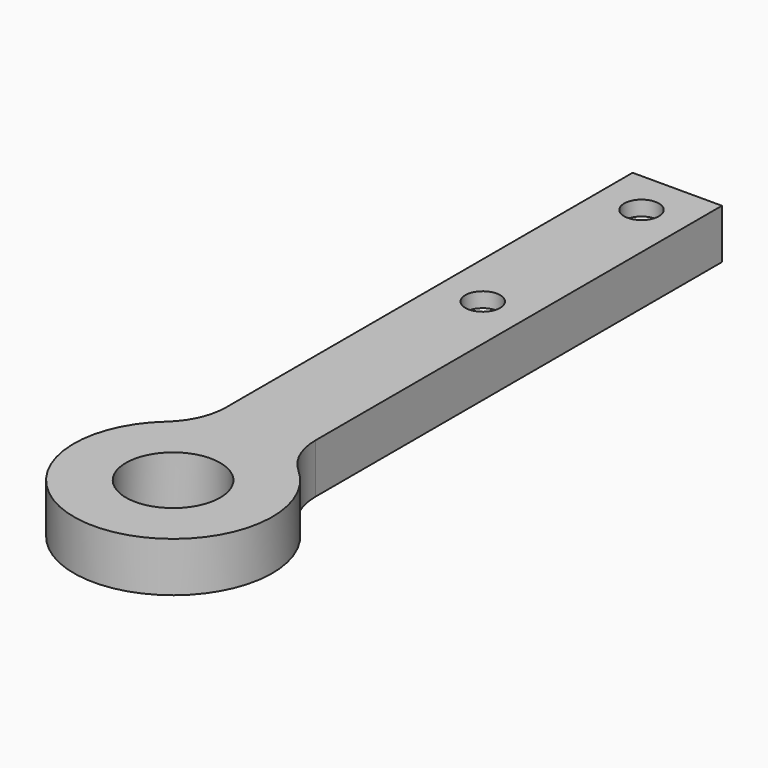
from build123d import *

# Parameters (mm, degrees)
CYLINDER003_R     = 3.5
CYLINDER003_DEPTH = 10
CYLINDER002_R     = 1.5
CYLINDER002_DEPTH = 10
CYLINDER_R        = 9.5
CYLINDER_DEPTH    = 10
CYLINDER001_R     = 20
CYLINDER001_DEPTH = 10
BOX_W             = 18
BOX_H             = 110
BOX_DEPTH         = 10
FILLET_R          = 13


with BuildPart() as cylinder003:
    # Cylinder003 → Cylinder003 (new body)
    with BuildSketch(Plane(origin=(15, -5, 8), x_dir=(1, 0, 0), z_dir=(0, 0, 1))):
        Circle(CYLINDER003_R)
    extrude(amount=CYLINDER003_DEPTH)


with BuildPart() as cone:
    # Cone → Cone (revolve)
    with BuildSketch(Plane(origin=(15, -5, 6), x_dir=(1, 0, 0), z_dir=(0, -1, 0))):
        Polygon((0, 0), (1.5, 0), (3.5, 2), (0, 2), align=None)
    revolve(axis=Axis((15, -5, 6), (0, 0, 1)))


with BuildPart() as cylinder002:
    # Cylinder002 → Cylinder002 (new body)
    with BuildSketch(Plane(origin=(15, -5, 0), x_dir=(1, 0, 0), z_dir=(0, 0, 1))):
        Circle(CYLINDER002_R)
    extrude(amount=CYLINDER002_DEPTH)


with BuildPart() as fusion001:
    # Fusion001 base: copy of Cylinder002
    add(cylinder002.part)

    # Fusion001: union Cylinder003, Cone
    add(cylinder003.part)
    add(cone.part)


with BuildPart() as fusion001_1:
    # Fusion001 placement: moved
    add(fusion001.part.moved(Location((-15, 123, -1))))


with BuildPart() as fusion002:
    # Fusion002 base: copy of Cylinder002
    add(cylinder002.part)

    # Fusion002: union Cylinder003, Cone
    add(cylinder003.part)
    add(cone.part)


with BuildPart() as fusion002_1:
    # Fusion002 placement: moved
    add(fusion002.part.moved(Location((-15, 83, -1))))


with BuildPart() as fusion003:
    # Cylinder → Cylinder (new body)
    with BuildSketch(Plane.XY):
        Circle(CYLINDER_R)
    extrude(amount=CYLINDER_DEPTH)

    # Fusion003: union Fusion001, Fusion002
    add(fusion001_1.part)
    add(fusion002_1.part)


with BuildPart() as cylinder001:
    # Cylinder001 → Cylinder001 (new body)
    with BuildSketch(Plane.XY):
        Circle(CYLINDER001_R)
    extrude(amount=CYLINDER001_DEPTH)


with BuildPart() as cut:
    # Box → Box (new body)
    with BuildSketch(Plane(origin=(-9, 17, 0), x_dir=(1, 0, 0), z_dir=(0, 0, 1))):
        with Locations((9, 55)):
            Rectangle(BOX_W, BOX_H)
    extrude(amount=BOX_DEPTH)

    # Fusion: union Cylinder001
    add(cylinder001.part)

    # Fillet
    fillet_edges = [cut.edges().sort_by_distance(p)[0] for p in [
        (9, 17.860571, 5),
        (-9, 17.860571, 5),
    ]]
    fillet(fillet_edges, radius=FILLET_R)

    # Cut: cut Fusion003
    add(fusion003.part, mode=Mode.SUBTRACT)


solid = cut.part
